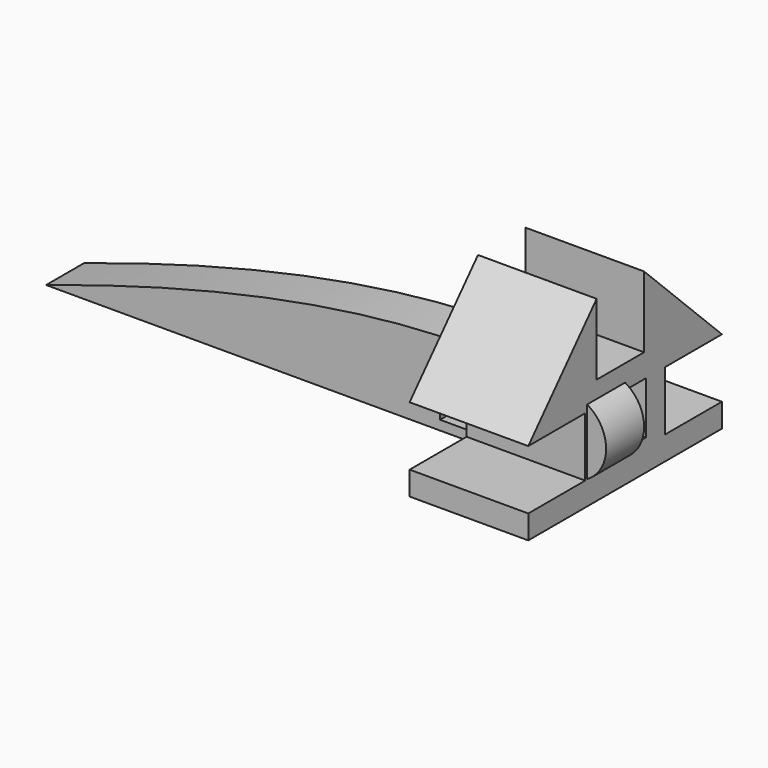
from build123d import *

# Parameters (mm, degrees)
SKETCH_W     = 12
SKETCH_H     = 12
PAD_DEPTH    = 10
SKETCH001_W  = 11
SKETCH001_H  = 11
PAD001_DEPTH = 25


with BuildPart() as wingrib:
    # Sketch → Pad (new body)
    with BuildSketch(Plane.XZ):
        with BuildLine():
            Line((-89, -8), (21, -8))
            ThreePointArc((21, -8), (29.000033, 0), (21, 8))
            add(Edge.make_bspline(
                [(21, 8), (-20, 15), (-89, -8)],
                knots=[0, 0, 0, 1, 1, 1], degree=2))
        make_face()
        Rectangle(SKETCH_W, SKETCH_H, mode=Mode.SUBTRACT)
    extrude(amount=PAD_DEPTH)


with BuildPart() as tailmount:
    # Sketch001 → Pad001 (new body)
    with BuildSketch(Plane.YZ):
        Polygon((10.5, 5.5), (25.5, 5.5), (5, 25.5), (5, 10.5), (-7.5, 10.5), (-7.5, 25.5), (-25.5, 5.5), (-10.5, 5.5), (-10.5, -7), (-25.5, -7), (-25.5, -12), (25.5, -12), (25.5, -7), (10.5, -7), align=None)
        Rectangle(SKETCH001_W, SKETCH001_H, mode=Mode.SUBTRACT)
    extrude(amount=PAD001_DEPTH)


solid = Compound([wingrib.part, tailmount.part])
